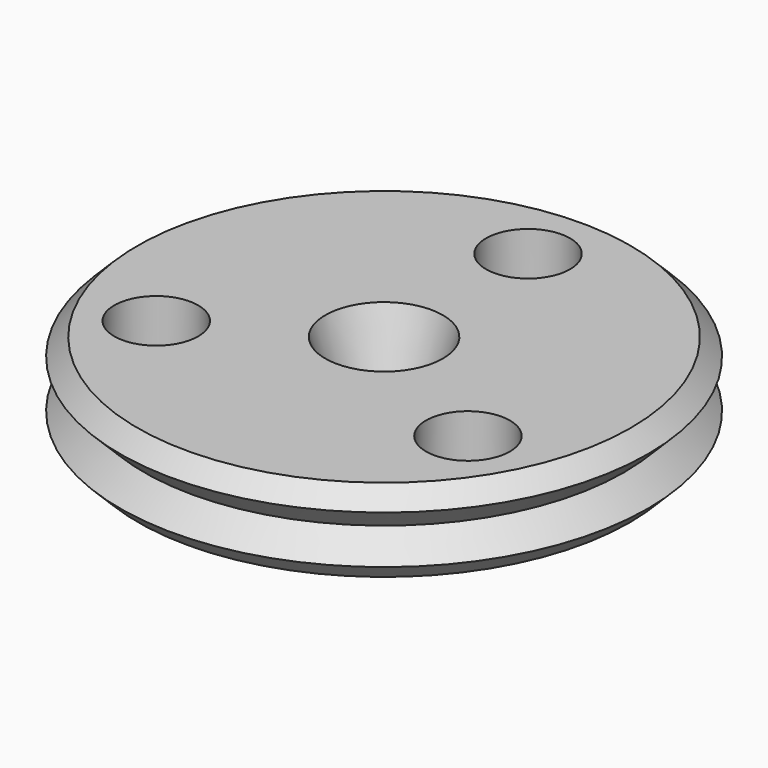
from build123d import *

# Parameters (mm, degrees)
SKETCH019_W    = 10
SKETCH019_H    = 2.7812096768
SKETCH005_W    = 10
SKETCH005_H    = 2.2955317108
CYLINDER_R     = 1.4
CYLINDER_DEPTH = 10
ARRAY001_COUNT = 3
SKETCH018_W    = 3.15
SKETCH018_H    = 2.3
SKETCH002_W    = 5
SKETCH002_H    = 6.8
ARRAY_Z_COUNT  = 6
ARRAY_Z_PITCH  = 1.6


with BuildPart() as obj1:
    # Sketch019 → Revolution008 (revolve)
    with BuildSketch(Plane.XZ):
        with Locations((5, 3.1861365492)):
            Rectangle(SKETCH019_W, SKETCH019_H)
    revolve(axis=Axis((0, 0, 0), (0, 0, 1)))


with BuildPart() as clone_of_lowerdomain001:
    # Sketch005 → Revolution004 (revolve)
    with BuildSketch(Plane.XZ):
        with Locations((5, 0.6477658554)):
            Rectangle(SKETCH005_W, SKETCH005_H)
    revolve(axis=Axis((0, 0, 0), (0, 0, 1)))


with BuildPart() as boltholes:
    # Cylinder → Cylinder (new body)
    with BuildSketch(Plane(origin=(0, 6, -1), x_dir=(1, 0, 0), z_dir=(0, 0, 1))):
        Circle(CYLINDER_R)
    extrude(amount=CYLINDER_DEPTH)

    # Array001: BoltHoles ×3 about axis
    array001_axis = Axis((0, 0, 0), (0, 0, 1))


with BuildPart() as boltholes_1:
    add(boltholes.part)
    for i in range(1, ARRAY001_COUNT):
        add(boltholes.part.rotate(array001_axis, i * 360 / ARRAY001_COUNT))


with BuildPart() as obj2:
    # Sketch018 → Revolution007 (revolve)
    with BuildSketch(Plane.XZ):
        with Locations((1.575, 5.7267413876)):
            Rectangle(SKETCH018_W, SKETCH018_H)
    revolve(axis=Axis((0, 0, 0), (0, 0, 1)))


with BuildPart() as obj3:
    # Sketch007 → Revolution006 (revolve)
    with BuildSketch(Plane.XZ):
        with BuildLine():
            ThreePointArc((1.5, 1.7955317108), (0.867020761, 2.4322916436), (0, 2.6655317108))
            Line((0, 2.6655317108), (0, 0.7955317108))
            Line((0, 0.7955317108), (1.5, 0.7955317108))
            Line((1.5, 1.7955317108), (1.5, 0.7955317108))
        make_face()
    revolve(axis=Axis((0, 0, 0), (0, 0, 1)))


with BuildPart() as obj4:
    # Sketch002 → Revolution002 (revolve)
    with BuildSketch(Plane.XZ):
        with Locations((7.5, 3.8)):
            Rectangle(SKETCH002_W, SKETCH002_H)
    revolve(axis=Axis((0, 0, 0), (0, 0, 1)))


with BuildPart() as innergroovetool:
    # Sketch001 → Revolution001 (revolve)
    with BuildSketch(Plane.XZ):
        Polygon((4, 8), (4, 6.4), (8, 6.4), (8.8, 7.2), (8, 8), align=None)
    revolve(axis=Axis((0, 0, 0), (0, 0, 1)))

    # Array Z: InnerGrooveTool ×6


with BuildPart() as innergroovetool_1:
    add(innergroovetool.part)
    with Locations(*[(0, 0, -i * ARRAY_Z_PITCH) for i in range(1, ARRAY_Z_COUNT)]):
        add(innergroovetool.part)

    # Common: intersect obj4
    add(obj4.part, mode=Mode.INTERSECT)


with BuildPart() as obj5:
    # Sketch → Revolution (revolve)
    with BuildSketch(Plane.XZ):
        Polygon((1.2, 0.4), (8, 0.4), (8, 7.2), (2.8, 7.2), (1.2, 2.2), align=None)
    revolve(axis=Axis((0, 0, 0), (0, 0, 1)))

    # Fusion001: union InnerGrooveTool
    add(innergroovetool_1.part)

    # Cut: cut obj3
    add(obj3.part, mode=Mode.SUBTRACT)

    # Cut003: cut obj2
    add(obj2.part, mode=Mode.SUBTRACT)

    # Cut001: cut BoltHoles
    add(boltholes_1.part, mode=Mode.SUBTRACT)

    # Cut002: cut Clone of LowerDomain001
    add(clone_of_lowerdomain001.part, mode=Mode.SUBTRACT)

    # Common002: intersect obj1
    add(obj1.part, mode=Mode.INTERSECT)


solid = obj5.part
